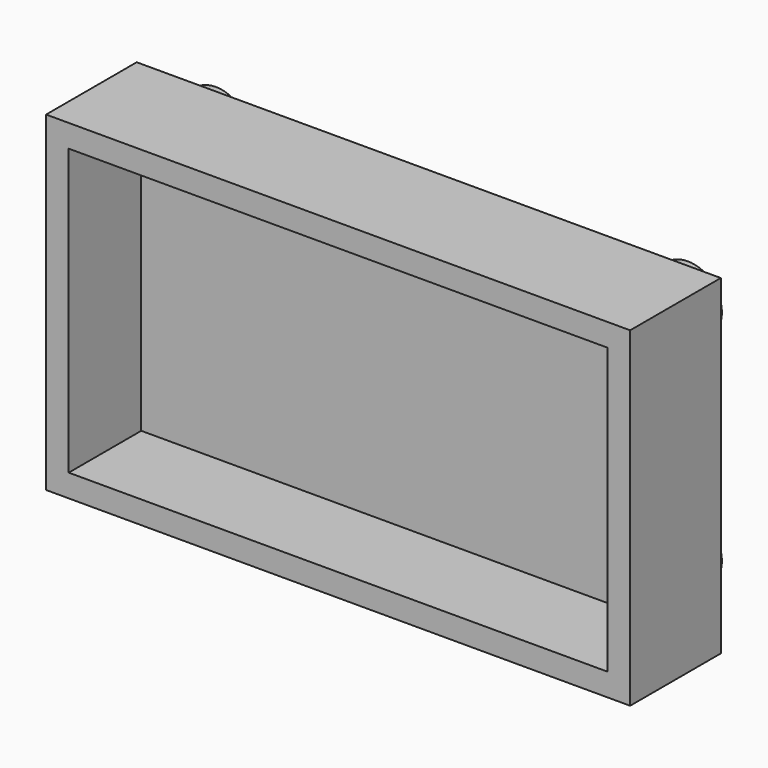
from build123d import *

# Parameters (mm, degrees)
F0_W     = 103.111512
F0_H     = 58.354322
F1_DEPTH = 20
F2_T     = -4
F3_R     = 6
F4_DEPTH = 6


with BuildPart() as f1:
    # F0 (on Front) → F1 (new body)
    with BuildSketch(Plane.XZ):
        Rectangle(F0_W, F0_H)
    extrude(amount=F1_DEPTH)

    # F2
    f2_openings = [f1.faces().sort_by_distance(p)[0] for p in [
        (0, -20, 0),
    ]]
    offset(amount=F2_T, openings=f2_openings)

    # F3 (on Front) → F4 (join)
    with BuildSketch(Plane.XZ):
        with Locations((-42.373065, -18.751857)):
            Circle(F3_R)
        with Locations((40.957681, -18.751857)):
            Circle(F3_R)
        with Locations((40.957681, 19.885929)):
            Circle(F3_R)
        with Locations((-42.373065, 19.885929)):
            Circle(F3_R)
    extrude(amount=-F4_DEPTH)


solid = f1.part
